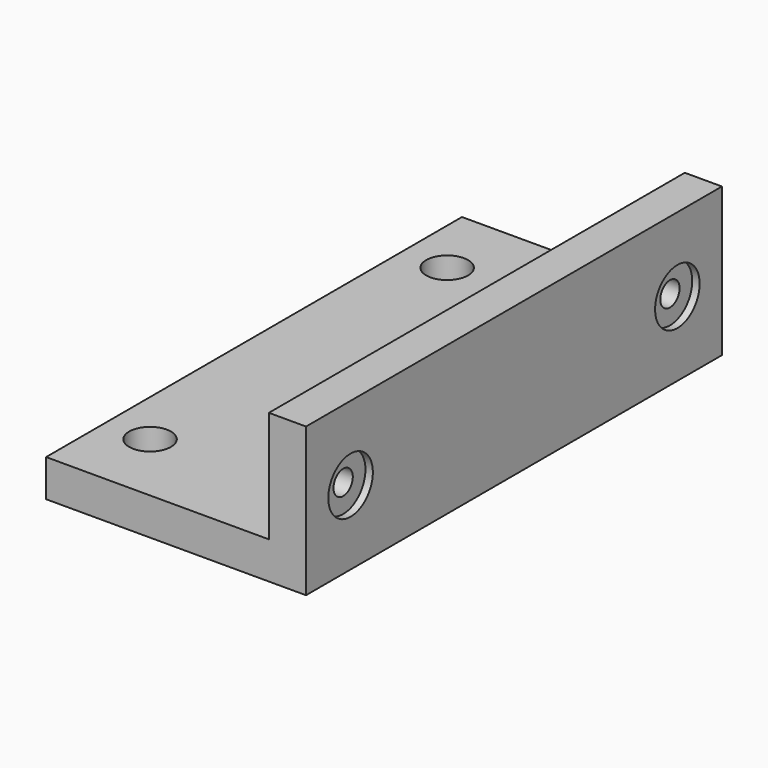
from build123d import *

# Parameters (mm, degrees)
F1_DEPTH       = 70
F3_D           = 6.6
F3_DEPTH       = 12
F3_CBORE_D     = 11.25
F3_CBORE_DEPTH = 6
F3_TIP         = 1.9828400428
F4_R           = 7.5
F5_DEPTH       = 2
F6_R           = 3.25
F7_R           = 3.25
F8_DEPTH       = 25


with BuildPart() as f1:
    # F0 (on Front) → F1 (new body, symmetric)
    with BuildSketch(Plane.XZ):
        Polygon((0, 10), (0, 0), (70, 0), (70, 40), (60, 40), (60, 10), align=None)
    extrude(amount=F1_DEPTH, both=True)

    # F3
    with Locations(Plane.XY.offset(10)):
        with Locations((12, 50), (52, 50), (52, -50), (12, -50)):
            CounterBoreHole(F3_D / 2, F3_CBORE_D / 2, F3_CBORE_DEPTH, depth=F3_DEPTH)
            with Locations((0, 0, -(F3_DEPTH + F3_TIP / 2))):  # 118° drill point
                Cone(0, F3_D / 2, F3_TIP, mode=Mode.SUBTRACT)

    # F4 (on face) → F5 (cut)
    with BuildSketch(Plane.YZ.offset(70)):
        with Locations((-55, 20)):
            Circle(F4_R)
        with Locations((55, 20)):
            Circle(F4_R)
    extrude(amount=-F5_DEPTH, mode=Mode.SUBTRACT)

    # F6 (on face) + F7 (on face) → F8 (cut)
    with BuildSketch(Plane.YZ.offset(68)):
        with Locations((-55, 20)):
            Circle(F6_R)
    with BuildSketch(Plane.YZ.offset(68)):
        with Locations((55, 20)):
            Circle(F7_R)
    extrude(amount=-F8_DEPTH, mode=Mode.SUBTRACT)


solid = f1.part
